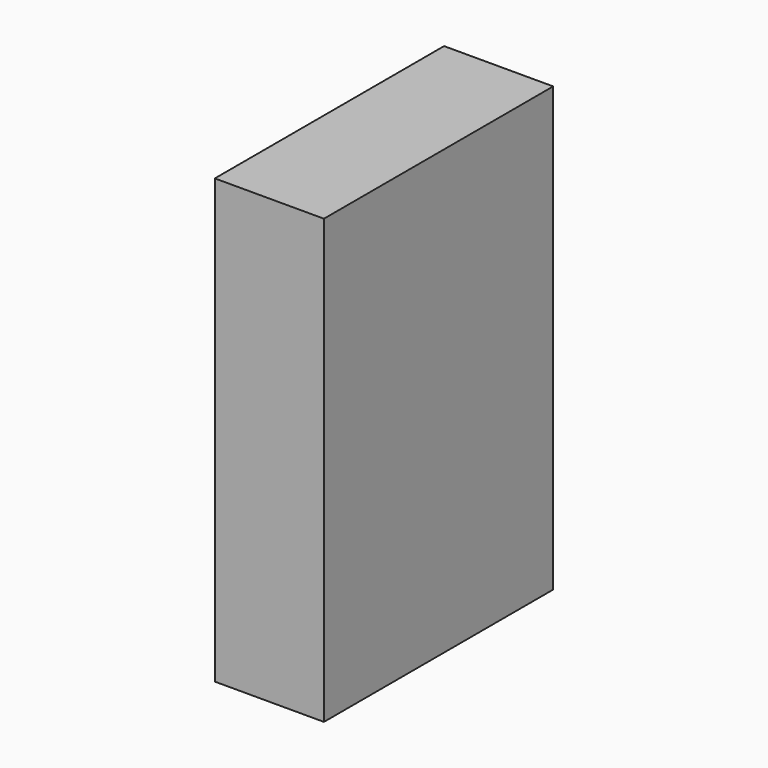
from build123d import *

# Parameters (mm, degrees)
F1_W     = 42.304739
F1_H     = 111.114651
F2_DEPTH = 171.779199


with BuildPart() as f2:
    # F1 (on face) → F2 (new body)
    with BuildSketch(Plane.XY):
        with Locations((21.152369, 55.557325)):
            Rectangle(F1_W, F1_H)
    extrude(amount=F2_DEPTH)


solid = f2.part
